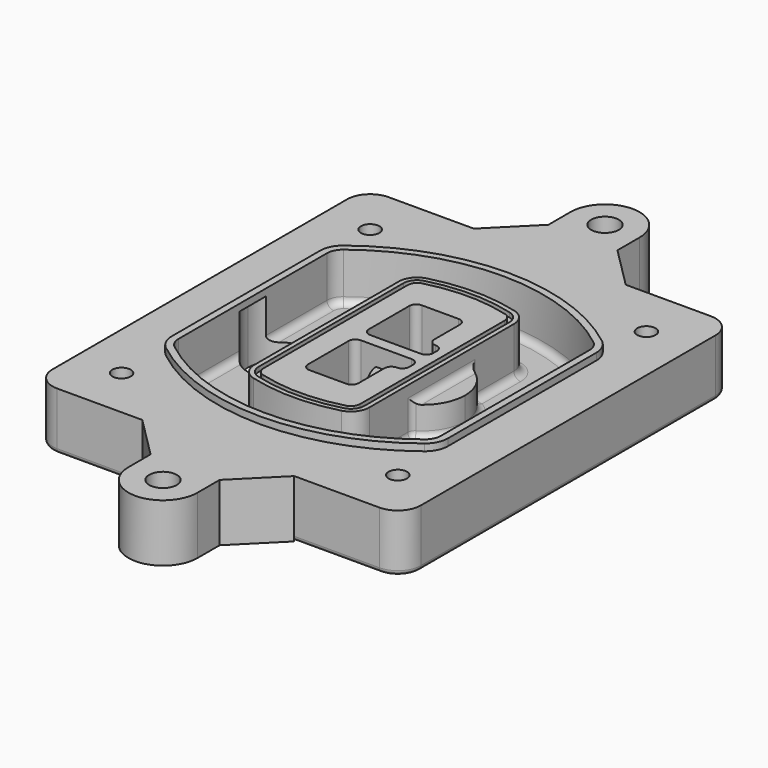
from build123d import *

# Parameters (mm, degrees)
F0_R      = 4
F1_DEPTH  = 25
F2_DEPTH  = 3
F3_DEPTH  = 18
F5_DEPTH  = 21
F6_DEPTH  = 2
F8_DEPTH  = 20
F9_DEPTH  = 16
F10_DEPTH = 25
F7_R      = 6
F7_R_2    = 4
F11_DEPTH = 6
F13_DEPTH = 9
F14_R     = 3
F15_R     = 2
F16_R     = 6
F17_DEPTH = 25


with BuildPart() as f1:
    # F0 (on Top) → F1 (new body)
    with BuildSketch(Plane.XY):
        with BuildLine():
            ThreePointArc((14.05, 38.3825811321), (16.9789321881, 31.3115133202), (24.05, 28.3825811321))
            Line((24.05, 28.3825811321), (164.05, 28.3825811321))
            ThreePointArc((164.05, 28.3825811321), (171.1210678119, 31.3115133202), (174.05, 38.3825811321))
            Line((174.05, 38.3825811321), (174.05, 198.3825811321))
            ThreePointArc((174.05, 198.3825811321), (171.1210678119, 205.4536489439), (164.05, 208.3825811321))
            Line((164.05, 208.3825811321), (24.05, 208.3825811321))
            ThreePointArc((24.05, 208.3825811321), (16.9789321881, 205.4536489439), (14.05, 198.3825811321))
            Line((14.05, 198.3825811321), (14.05, 38.3825811321))
        make_face()
        with Locations((34.05, 50.8825811321)):
            Circle(F0_R, mode=Mode.SUBTRACT)
        with Locations((154.05, 50.8825811321)):
            Circle(F0_R, mode=Mode.SUBTRACT)
        with BuildLine():
            ThreePointArc((30.05, 158.6760234193), (31.4679615202, 164.8154295545), (35.4346153846, 169.7112011673))
            ThreePointArc((35.4346153846, 169.7112011673), (94.05, 189.8825811321), (152.6653846154, 169.7112011673))
            ThreePointArc((152.6653846154, 169.7112011673), (156.6320384798, 164.8154295545), (158.05, 158.6760234193))
            Line((158.05, 158.6760234193), (158.05, 78.0891388448))
            ThreePointArc((158.05, 78.0891388448), (156.6320384798, 71.9497327097), (152.6653846154, 67.0539610969))
            ThreePointArc((152.6653846154, 67.0539610969), (94.05, 46.8825811321), (35.4346153846, 67.0539610969))
            ThreePointArc((35.4346153846, 67.0539610969), (31.4679615202, 71.9497327097), (30.05, 78.0891388448))
            Line((30.05, 78.0891388448), (30.05, 158.6760234193))
        make_face(mode=Mode.SUBTRACT)
        with Locations((34.05, 185.8825811321)):
            Circle(F0_R, mode=Mode.SUBTRACT)
        with Locations((154.05, 185.8825811321)):
            Circle(F0_R, mode=Mode.SUBTRACT)
        with BuildLine():
            ThreePointArc((152.6653846154, 169.7112011673), (94.05, 189.8825811321), (35.4346153846, 169.7112011673))
            ThreePointArc((35.4346153846, 169.7112011673), (31.4679615202, 164.8154295545), (30.05, 158.6760234193))
            Line((30.05, 158.6760234193), (30.05, 78.0891388448))
            ThreePointArc((30.05, 78.0891388448), (31.4679615202, 71.9497327097), (35.4346153846, 67.0539610969))
            ThreePointArc((35.4346153846, 67.0539610969), (94.05, 46.8825811321), (152.6653846154, 67.0539610969))
            ThreePointArc((152.6653846154, 67.0539610969), (156.6320384798, 71.9497327097), (158.05, 78.0891388448))
            Line((158.05, 78.0891388448), (158.05, 158.6760234193))
            ThreePointArc((158.05, 158.6760234193), (156.6320384798, 164.8154295545), (152.6653846154, 169.7112011673))
        make_face()
        with BuildLine():
            Line((34.05, 78.0891388448), (34.05, 158.6760234193))
            ThreePointArc((34.05, 158.6760234193), (35.0628296573, 163.0613135158), (37.8961538462, 166.5582932393))
            ThreePointArc((37.8961538462, 166.5582932393), (94.05, 185.8825811321), (150.2038461538, 166.5582932393))
            ThreePointArc((150.2038461538, 166.5582932393), (153.0371703427, 163.0613135158), (154.05, 158.6760234193))
            Line((154.05, 158.6760234193), (154.05, 78.0891388448))
            ThreePointArc((154.05, 78.0891388448), (153.0371703427, 73.7038487483), (150.2038461538, 70.2068690248))
            ThreePointArc((150.2038461538, 70.2068690248), (94.05, 50.8825811321), (37.8961538462, 70.2068690248))
            ThreePointArc((37.8961538462, 70.2068690248), (35.0628296573, 73.7038487483), (34.05, 78.0891388448))
        make_face(mode=Mode.SUBTRACT)
        with BuildLine():
            ThreePointArc((37.8961538462, 166.5582932393), (35.0628296573, 163.0613135158), (34.05, 158.6760234193))
            Line((34.05, 158.6760234193), (34.05, 78.0891388448))
            ThreePointArc((34.05, 78.0891388448), (35.0628296573, 73.7038487483), (37.8961538462, 70.2068690248))
            ThreePointArc((37.8961538462, 70.2068690248), (94.05, 50.8825811321), (150.2038461538, 70.2068690248))
            ThreePointArc((150.2038461538, 70.2068690248), (153.0371703427, 73.7038487483), (154.05, 78.0891388448))
            Line((154.05, 78.0891388448), (154.05, 158.6760234193))
            ThreePointArc((154.05, 158.6760234193), (153.0371703427, 163.0613135158), (150.2038461538, 166.5582932393))
            ThreePointArc((150.2038461538, 166.5582932393), (94.05, 185.8825811321), (37.8961538462, 166.5582932393))
        make_face()
        with BuildLine():
            ThreePointArc((148.3576923077, 164.1936122933), (150.3410192399, 161.7457264869), (151.05, 158.6760234193))
            Line((151.05, 158.6760234193), (151.05, 78.0891388448))
            ThreePointArc((151.05, 78.0891388448), (150.3410192399, 75.0194357772), (148.3576923077, 72.5715499708))
            ThreePointArc((148.3576923077, 72.5715499708), (94.05, 53.8825811321), (39.7423076923, 72.5715499708))
            ThreePointArc((39.7423076923, 72.5715499708), (37.7589807601, 75.0194357772), (37.05, 78.0891388448))
            Line((37.05, 78.0891388448), (37.05, 158.6760234193))
            ThreePointArc((37.05, 158.6760234193), (37.7589807601, 161.7457264869), (39.7423076923, 164.1936122933))
            ThreePointArc((39.7423076923, 164.1936122933), (94.05, 182.8825811321), (148.3576923077, 164.1936122933))
        make_face(mode=Mode.SUBTRACT)
        with BuildLine():
            Line((151.05, 78.0891388448), (151.05, 158.6760234193))
            ThreePointArc((151.05, 158.6760234193), (150.3410192399, 161.7457264869), (148.3576923077, 164.1936122933))
            ThreePointArc((148.3576923077, 164.1936122933), (94.05, 182.8825811321), (39.7423076923, 164.1936122933))
            ThreePointArc((39.7423076923, 164.1936122933), (37.7589807601, 161.7457264869), (37.05, 158.6760234193))
            Line((37.05, 158.6760234193), (37.05, 78.0891388448))
            ThreePointArc((37.05, 78.0891388448), (37.7589807601, 75.0194357772), (39.7423076923, 72.5715499708))
            ThreePointArc((39.7423076923, 72.5715499708), (94.05, 53.8825811321), (148.3576923077, 72.5715499708))
            ThreePointArc((148.3576923077, 72.5715499708), (150.3410192399, 75.0194357772), (151.05, 78.0891388448))
        make_face()
    extrude(amount=-F1_DEPTH)

    # F0 (on Top) → F2 (join)
    with BuildSketch(Plane.XY):
        with BuildLine():
            ThreePointArc((37.8961538462, 166.5582932393), (35.0628296573, 163.0613135158), (34.05, 158.6760234193))
            Line((34.05, 158.6760234193), (34.05, 78.0891388448))
            ThreePointArc((34.05, 78.0891388448), (35.0628296573, 73.7038487483), (37.8961538462, 70.2068690248))
            ThreePointArc((37.8961538462, 70.2068690248), (94.05, 50.8825811321), (150.2038461538, 70.2068690248))
            ThreePointArc((150.2038461538, 70.2068690248), (153.0371703427, 73.7038487483), (154.05, 78.0891388448))
            Line((154.05, 78.0891388448), (154.05, 158.6760234193))
            ThreePointArc((154.05, 158.6760234193), (153.0371703427, 163.0613135158), (150.2038461538, 166.5582932393))
            ThreePointArc((150.2038461538, 166.5582932393), (94.05, 185.8825811321), (37.8961538462, 166.5582932393))
        make_face()
        with BuildLine():
            ThreePointArc((148.3576923077, 164.1936122933), (150.3410192399, 161.7457264869), (151.05, 158.6760234193))
            Line((151.05, 158.6760234193), (151.05, 78.0891388448))
            ThreePointArc((151.05, 78.0891388448), (150.3410192399, 75.0194357772), (148.3576923077, 72.5715499708))
            ThreePointArc((148.3576923077, 72.5715499708), (94.05, 53.8825811321), (39.7423076923, 72.5715499708))
            ThreePointArc((39.7423076923, 72.5715499708), (37.7589807601, 75.0194357772), (37.05, 78.0891388448))
            Line((37.05, 78.0891388448), (37.05, 158.6760234193))
            ThreePointArc((37.05, 158.6760234193), (37.7589807601, 161.7457264869), (39.7423076923, 164.1936122933))
            ThreePointArc((39.7423076923, 164.1936122933), (94.05, 182.8825811321), (148.3576923077, 164.1936122933))
        make_face(mode=Mode.SUBTRACT)
    extrude(amount=F2_DEPTH)

    # F0 (on Top) → F3 (cut)
    with BuildSketch(Plane.XY):
        with BuildLine():
            Line((151.05, 78.0891388448), (151.05, 158.6760234193))
            ThreePointArc((151.05, 158.6760234193), (150.3410192399, 161.7457264869), (148.3576923077, 164.1936122933))
            ThreePointArc((148.3576923077, 164.1936122933), (94.05, 182.8825811321), (39.7423076923, 164.1936122933))
            ThreePointArc((39.7423076923, 164.1936122933), (37.7589807601, 161.7457264869), (37.05, 158.6760234193))
            Line((37.05, 158.6760234193), (37.05, 78.0891388448))
            ThreePointArc((37.05, 78.0891388448), (37.7589807601, 75.0194357772), (39.7423076923, 72.5715499708))
            ThreePointArc((39.7423076923, 72.5715499708), (94.05, 53.8825811321), (148.3576923077, 72.5715499708))
            ThreePointArc((148.3576923077, 72.5715499708), (150.3410192399, 75.0194357772), (151.05, 78.0891388448))
        make_face()
    extrude(amount=-F3_DEPTH, mode=Mode.SUBTRACT)

    # F4 (on face) → F5 (join, through all)
    with BuildSketch(Plane.XY.offset(3)):
        with BuildLine():
            ThreePointArc((69.05, 79.13605345), (70.6988454002, 74.2716074128), (74.9657088123, 71.4123412437))
            ThreePointArc((74.9657088123, 71.4123412437), (94.05, 68.8825811321), (113.1342911877, 71.4123412437))
            ThreePointArc((113.1342911877, 71.4123412437), (117.4011545998, 74.2716074128), (119.05, 79.13605345))
            Line((119.05, 79.13605345), (119.05, 157.6291088141))
            ThreePointArc((119.05, 157.6291088141), (117.4011545998, 162.4935548514), (113.1342911877, 165.3528210204))
            ThreePointArc((113.1342911877, 165.3528210204), (94.05, 167.8825811321), (74.9657088123, 165.3528210204))
            ThreePointArc((74.9657088123, 165.3528210204), (70.6988454002, 162.4935548514), (69.05, 157.6291088141))
            Line((69.05, 157.6291088141), (69.05, 79.13605345))
        make_face()
        with BuildLine():
            ThreePointArc((112.6132183908, 163.4218929688), (115.8133659499, 161.2774433421), (117.05, 157.6291088141))
            Line((117.05, 157.6291088141), (117.05, 79.13605345))
            ThreePointArc((117.05, 79.13605345), (115.8133659499, 75.4877189221), (112.6132183908, 73.3432692953))
            ThreePointArc((112.6132183908, 73.3432692953), (94.05, 70.8825811321), (75.4867816092, 73.3432692953))
            ThreePointArc((75.4867816092, 73.3432692953), (72.2866340501, 75.4877189221), (71.05, 79.13605345))
            Line((71.05, 79.13605345), (71.05, 157.6291088141))
            ThreePointArc((71.05, 157.6291088141), (72.2866340501, 161.2774433421), (75.4867816092, 163.4218929688))
            ThreePointArc((75.4867816092, 163.4218929688), (94.05, 165.8825811321), (112.6132183908, 163.4218929688))
        make_face(mode=Mode.SUBTRACT)
        with BuildLine():
            Line((117.05, 79.13605345), (117.05, 157.6291088141))
            ThreePointArc((117.05, 157.6291088141), (115.8133659499, 161.2774433421), (112.6132183908, 163.4218929688))
            ThreePointArc((112.6132183908, 163.4218929688), (94.05, 165.8825811321), (75.4867816092, 163.4218929688))
            ThreePointArc((75.4867816092, 163.4218929688), (72.2866340501, 161.2774433421), (71.05, 157.6291088141))
            Line((71.05, 157.6291088141), (71.05, 79.13605345))
            ThreePointArc((71.05, 79.13605345), (72.2866340501, 75.4877189221), (75.4867816092, 73.3432692953))
            ThreePointArc((75.4867816092, 73.3432692953), (94.05, 70.8825811321), (112.6132183908, 73.3432692953))
            ThreePointArc((112.6132183908, 73.3432692953), (115.8133659499, 75.4877189221), (117.05, 79.13605345))
        make_face()
        with BuildLine():
            ThreePointArc((112.0921455939, 161.4909649173), (114.2255772999, 160.0613318328), (115.05, 157.6291088141))
            Line((115.05, 157.6291088141), (115.05, 79.13605345))
            ThreePointArc((115.05, 79.13605345), (114.2255772999, 76.7038304314), (112.0921455939, 75.2741973469))
            ThreePointArc((112.0921455939, 75.2741973469), (94.05, 72.8825811321), (76.0078544061, 75.2741973469))
            ThreePointArc((76.0078544061, 75.2741973469), (73.8744227001, 76.7038304314), (73.05, 79.13605345))
            Line((73.05, 79.13605345), (73.05, 157.6291088141))
            ThreePointArc((73.05, 157.6291088141), (73.8744227001, 160.0613318328), (76.0078544061, 161.4909649173))
            ThreePointArc((76.0078544061, 161.4909649173), (94.05, 163.8825811321), (112.0921455939, 161.4909649173))
        make_face(mode=Mode.SUBTRACT)
        with BuildLine():
            Line((115.05, 79.13605345), (115.05, 157.6291088141))
            ThreePointArc((115.05, 157.6291088141), (114.2255772999, 160.0613318328), (112.0921455939, 161.4909649173))
            ThreePointArc((112.0921455939, 161.4909649173), (94.05, 163.8825811321), (76.0078544061, 161.4909649173))
            ThreePointArc((76.0078544061, 161.4909649173), (73.8744227001, 160.0613318328), (73.05, 157.6291088141))
            Line((73.05, 157.6291088141), (73.05, 79.13605345))
            ThreePointArc((73.05, 79.13605345), (73.8744227001, 76.7038304314), (76.0078544061, 75.2741973469))
            ThreePointArc((76.0078544061, 75.2741973469), (94.05, 72.8825811321), (112.0921455939, 75.2741973469))
            ThreePointArc((112.0921455939, 75.2741973469), (114.2255772999, 76.7038304314), (115.05, 79.13605345))
        make_face()
        with BuildLine():
            Line((86.05, 115.8825811321), (108.05, 115.8825811321))
            ThreePointArc((108.05, 115.8825811321), (110.1713203436, 115.0039014756), (111.05, 112.8825811321))
            Line((111.05, 112.8825811321), (111.05, 110.8825811321))
            ThreePointArc((111.05, 110.8825811321), (110.1713203436, 108.7612607885), (108.05, 107.8825811321))
            ThreePointArc((108.05, 107.8825811321), (105.9286796564, 107.0039014756), (105.05, 104.8825811321))
            Line((105.05, 104.8825811321), (105.05, 90.8825811321))
            ThreePointArc((105.05, 90.8825811321), (104.1713203436, 88.7612607885), (102.05, 87.8825811321))
            Line((102.05, 87.8825811321), (86.05, 87.8825811321))
            ThreePointArc((86.05, 87.8825811321), (83.9286796564, 88.7612607885), (83.05, 90.8825811321))
            Line((83.05, 90.8825811321), (83.05, 112.8825811321))
            ThreePointArc((83.05, 112.8825811321), (83.9286796564, 115.0039014756), (86.05, 115.8825811321))
        make_face(mode=Mode.SUBTRACT)
        with BuildLine():
            ThreePointArc((86.05, 120.8825811321), (83.9286796564, 121.7612607885), (83.05, 123.8825811321))
            Line((83.05, 123.8825811321), (83.05, 145.8825811321))
            ThreePointArc((83.05, 145.8825811321), (83.9286796564, 148.0039014756), (86.05, 148.8825811321))
            Line((86.05, 148.8825811321), (102.05, 148.8825811321))
            ThreePointArc((102.05, 148.8825811321), (104.1713203436, 148.0039014756), (105.05, 145.8825811321))
            Line((105.05, 145.8825811321), (105.05, 131.8825811321))
            ThreePointArc((105.05, 131.8825811321), (105.9286796564, 129.7612607885), (108.05, 128.8825811321))
            ThreePointArc((108.05, 128.8825811321), (110.1713203436, 128.0039014756), (111.05, 125.8825811321))
            Line((111.05, 125.8825811321), (111.05, 123.8825811321))
            ThreePointArc((111.05, 123.8825811321), (110.1713203436, 121.7612607885), (108.05, 120.8825811321))
            Line((108.05, 120.8825811321), (86.05, 120.8825811321))
        make_face(mode=Mode.SUBTRACT)
    extrude(amount=-F5_DEPTH)

    # F4 (on face) → F6 (cut)
    with BuildSketch(Plane.XY.offset(3)):
        with BuildLine():
            Line((117.05, 79.13605345), (117.05, 157.6291088141))
            ThreePointArc((117.05, 157.6291088141), (115.8133659499, 161.2774433421), (112.6132183908, 163.4218929688))
            ThreePointArc((112.6132183908, 163.4218929688), (94.05, 165.8825811321), (75.4867816092, 163.4218929688))
            ThreePointArc((75.4867816092, 163.4218929688), (72.2866340501, 161.2774433421), (71.05, 157.6291088141))
            Line((71.05, 157.6291088141), (71.05, 79.13605345))
            ThreePointArc((71.05, 79.13605345), (72.2866340501, 75.4877189221), (75.4867816092, 73.3432692953))
            ThreePointArc((75.4867816092, 73.3432692953), (94.05, 70.8825811321), (112.6132183908, 73.3432692953))
            ThreePointArc((112.6132183908, 73.3432692953), (115.8133659499, 75.4877189221), (117.05, 79.13605345))
        make_face()
        with BuildLine():
            ThreePointArc((112.0921455939, 161.4909649173), (114.2255772999, 160.0613318328), (115.05, 157.6291088141))
            Line((115.05, 157.6291088141), (115.05, 79.13605345))
            ThreePointArc((115.05, 79.13605345), (114.2255772999, 76.7038304314), (112.0921455939, 75.2741973469))
            ThreePointArc((112.0921455939, 75.2741973469), (94.05, 72.8825811321), (76.0078544061, 75.2741973469))
            ThreePointArc((76.0078544061, 75.2741973469), (73.8744227001, 76.7038304314), (73.05, 79.13605345))
            Line((73.05, 79.13605345), (73.05, 157.6291088141))
            ThreePointArc((73.05, 157.6291088141), (73.8744227001, 160.0613318328), (76.0078544061, 161.4909649173))
            ThreePointArc((76.0078544061, 161.4909649173), (94.05, 163.8825811321), (112.0921455939, 161.4909649173))
        make_face(mode=Mode.SUBTRACT)
    extrude(amount=-F6_DEPTH, mode=Mode.SUBTRACT)

    # F7 (on face) → F8 (join)
    with BuildSketch(Plane(origin=(0, 0, -25), x_dir=(1, 0, 0), z_dir=(0, 0, -1))):
        with BuildLine():
            ThreePointArc((97.33842436, -118.3825811321), (110.8067035675, -104.9143019245), (124.274982775, -118.3825811321))
            Line((124.274982775, -118.3825811321), (129.274982775, -118.3825811321))
            ThreePointArc((129.274982775, -118.3825811321), (110.8067035675, -99.9143019245), (92.33842436, -118.3825811321))
            Line((92.33842436, -118.3825811321), (97.33842436, -118.3825811321))
        make_face()
        with BuildLine():
            Line((97.33842436, -118.3825811321), (124.274982775, -118.3825811321))
            ThreePointArc((124.274982775, -118.3825811321), (110.8067035675, -104.9143019245), (97.33842436, -118.3825811321))
        make_face()
        with BuildLine():
            ThreePointArc((97.33842436, -118.3825811321), (110.8067035675, -131.8508603396), (124.274982775, -118.3825811321))
            Line((124.274982775, -118.3825811321), (97.33842436, -118.3825811321))
        make_face()
        with BuildLine():
            Line((129.274982775, -118.3825811321), (124.274982775, -118.3825811321))
            ThreePointArc((124.274982775, -118.3825811321), (110.8067035675, -131.8508603396), (97.33842436, -118.3825811321))
            Line((97.33842436, -118.3825811321), (92.33842436, -118.3825811321))
            ThreePointArc((92.33842436, -118.3825811321), (110.8067035675, -136.8508603396), (129.274982775, -118.3825811321))
        make_face()
    extrude(amount=-F8_DEPTH)

    # F7 (on face) → F9 (cut)
    with BuildSketch(Plane(origin=(0, 0, -25), x_dir=(1, 0, 0), z_dir=(0, 0, -1))):
        with BuildLine():
            Line((97.33842436, -118.3825811321), (124.274982775, -118.3825811321))
            ThreePointArc((124.274982775, -118.3825811321), (110.8067035675, -104.9143019245), (97.33842436, -118.3825811321))
        make_face()
        with BuildLine():
            ThreePointArc((97.33842436, -118.3825811321), (110.8067035675, -131.8508603396), (124.274982775, -118.3825811321))
            Line((124.274982775, -118.3825811321), (97.33842436, -118.3825811321))
        make_face()
    extrude(amount=-F9_DEPTH, mode=Mode.SUBTRACT)

    # F7 (on face) → F10 (cut)
    with BuildSketch(Plane(origin=(0, 0, -25), x_dir=(1, 0, 0), z_dir=(0, 0, -1))):
        with BuildLine():
            Line((35.0181770675, -118.3825811321), (61.9547354825, -118.3825811321))
            ThreePointArc((61.9547354825, -118.3825811321), (48.486456275, -104.9143019245), (35.0181770675, -118.3825811321))
        make_face()
        with BuildLine():
            ThreePointArc((35.0181770675, -118.3825811321), (48.486456275, -131.8508603396), (61.9547354825, -118.3825811321))
            Line((61.9547354825, -118.3825811321), (35.0181770675, -118.3825811321))
        make_face()
    extrude(amount=-F10_DEPTH, mode=Mode.SUBTRACT)

    # F7 (on face) → F11 (cut)
    with BuildSketch(Plane(origin=(0, 0, -25), x_dir=(1, 0, 0), z_dir=(0, 0, -1))):
        with Locations((154.05, -185.8825811321)):
            Circle(F7_R)
        with Locations((154.05, -185.8825811321)):
            Circle(F7_R_2, mode=Mode.SUBTRACT)
        with Locations((154.05, -185.8825811321)):
            Circle(F7_R)
        with Locations((154.05, -185.8825811321)):
            Circle(F7_R_2, mode=Mode.SUBTRACT)
        with Locations((34.05, -185.8825811321)):
            Circle(F7_R)
        with Locations((34.05, -185.8825811321)):
            Circle(F7_R_2, mode=Mode.SUBTRACT)
        with Locations((34.05, -185.8825811321)):
            Circle(F7_R)
        with Locations((34.05, -185.8825811321)):
            Circle(F7_R_2, mode=Mode.SUBTRACT)
        with Locations((34.05, -50.8825811321)):
            Circle(F7_R)
        with Locations((34.05, -50.8825811321)):
            Circle(F7_R_2, mode=Mode.SUBTRACT)
        with Locations((34.05, -50.8825811321)):
            Circle(F7_R)
        with Locations((34.05, -50.8825811321)):
            Circle(F7_R_2, mode=Mode.SUBTRACT)
        with Locations((154.05, -50.8825811321)):
            Circle(F7_R)
        with Locations((154.05, -50.8825811321)):
            Circle(F7_R_2, mode=Mode.SUBTRACT)
        with Locations((154.05, -50.8825811321)):
            Circle(F7_R)
        with Locations((154.05, -50.8825811321)):
            Circle(F7_R_2, mode=Mode.SUBTRACT)
    extrude(amount=-F11_DEPTH, mode=Mode.SUBTRACT)

    # F12 (on face) → F13 (cut, through all)
    with BuildSketch(Plane(origin=(0, 0, -9), x_dir=(1, 0, 0), z_dir=(0, 0, -1))):
        with BuildLine():
            Line((105.05, -104.8825811321), (105.05, -100.8344273567))
            ThreePointArc((105.05, -100.8344273567), (96.6196536419, -106.5586667507), (92.5084157545, -115.8825811321))
            Line((92.5084157545, -115.8825811321), (97.5724848595, -115.8825811321))
            ThreePointArc((97.5724848595, -115.8825811321), (100.2357188154, -110.0369939039), (105.3036447004, -106.0898642673))
            ThreePointArc((105.3036447004, -106.0898642673), (105.1140958889, -105.4994012441), (105.05, -104.8825811321))
        make_face()
        with BuildLine():
            ThreePointArc((105.3036447004, -130.6752979968), (100.2357188154, -126.7281683602), (97.5724848595, -120.8825811321))
            Line((97.5724848595, -120.8825811321), (92.5084157545, -120.8825811321))
            ThreePointArc((92.5084157545, -120.8825811321), (96.6196536419, -130.2064955134), (105.05, -135.9307349074))
            Line((105.05, -135.9307349074), (105.05, -131.8825811321))
            ThreePointArc((105.05, -131.8825811321), (105.1140958889, -131.26576102), (105.3036447004, -130.6752979968))
        make_face()
        with BuildLine():
            ThreePointArc((105.3036447004, -106.0898642673), (100.2357188154, -110.0369939039), (97.5724848595, -115.8825811321))
            Line((97.5724848595, -115.8825811321), (108.05, -115.8825811321))
            ThreePointArc((108.05, -115.8825811321), (110.1713203436, -115.0039014756), (111.05, -112.8825811321))
            Line((111.05, -112.8825811321), (111.05, -110.8825811321))
            ThreePointArc((111.05, -110.8825811321), (110.1713203436, -108.7612607885), (108.05, -107.8825811321))
            ThreePointArc((108.05, -107.8825811321), (106.4101599782, -107.3947365219), (105.3036447004, -106.0898642673))
        make_face()
        with BuildLine():
            Line((108.05, -120.8825811321), (97.5724848595, -120.8825811321))
            ThreePointArc((97.5724848595, -120.8825811321), (100.2357188154, -126.7281683602), (105.3036447004, -130.6752979968))
            ThreePointArc((105.3036447004, -130.6752979968), (106.4101599782, -129.3704257422), (108.05, -128.8825811321))
            ThreePointArc((108.05, -128.8825811321), (110.1713203436, -128.0039014756), (111.05, -125.8825811321))
            Line((111.05, -125.8825811321), (111.05, -123.8825811321))
            ThreePointArc((111.05, -123.8825811321), (110.1713203436, -121.7612607885), (108.05, -120.8825811321))
        make_face()
    extrude(amount=F13_DEPTH, mode=Mode.SUBTRACT)

    # F14
    f14_edges = [f1.edges().sort_by_distance(p)[0] for p in [
        (37.05, 94.679105, -18),
        (37.05, 142.086057, -18),
        (119.05, 118.382581, -5),
        (119.05, 134.909087, -11.5),
        (119.05, 101.856075, -11.5),
        (119.05, 90.496064, -18),
        (129.274983, 118.382581, -18),
    ]]
    fillet(f14_edges, radius=F14_R)

    # F15
    f15_edges = [f1.edges().sort_by_distance(p)[0] for p in [
        (94.05, 28.382581, -25),
    ]]
    fillet(f15_edges, radius=F15_R)

    # F16 (on face) → F17 (join, through all)
    with BuildSketch(Plane.XY):
        with BuildLine():
            Line((61.05, 208.3825811321), (94.05, 208.3825811321))
            Line((94.05, 208.3825811321), (127.05, 208.3825811321))
            Line((127.05, 208.3825811321), (109.05, 226.3825811321))
            Line((109.05, 226.3825811321), (109.05, 238.3825811321))
            ThreePointArc((109.05, 238.3825811321), (94.05, 253.3825811321), (79.05, 238.3825811321))
            Line((79.05, 238.3825811321), (79.05, 226.3825811321))
            Line((79.05, 226.3825811321), (61.05, 208.3825811321))
        make_face()
        with BuildLine():
            ThreePointArc((94.05, 232.3825811321), (89.8073593129, 242.6252218192), (100.05, 238.3825811321))
            ThreePointArc((100.05, 238.3825811321), (98.2926406871, 234.1399404449), (94.05, 232.3825811321))
        make_face(mode=Mode.SUBTRACT)
        with BuildLine():
            Line((127.05, 28.3825811321), (61.05, 28.3825811321))
            Line((61.05, 28.3825811321), (79.05, 10.3825811321))
            Line((79.05, 10.3825811321), (79.05, -1.6174188679))
            ThreePointArc((79.05, -1.6174188679), (94.05, -16.6174188679), (109.05, -1.6174188679))
            Line((109.05, -1.6174188679), (109.05, 10.3825811321))
            Line((109.05, 10.3825811321), (127.05, 28.3825811321))
        make_face()
        with Locations((94.05, -1.6174188679)):
            Circle(F16_R, mode=Mode.SUBTRACT)
    extrude(amount=-F17_DEPTH)


solid = f1.part
